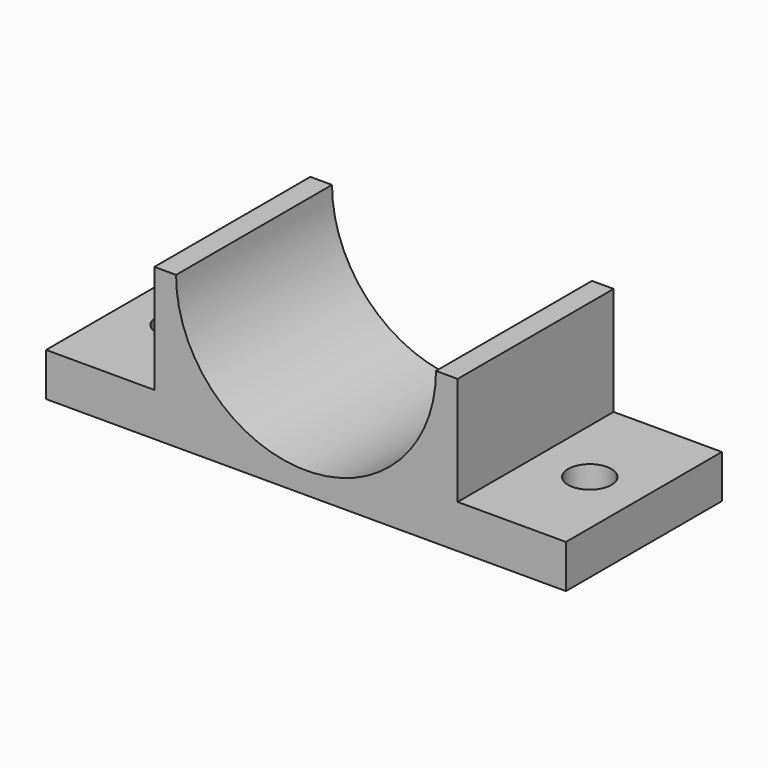
from build123d import *

# Parameters (mm, degrees)
F1_DEPTH = 57.15
F2_R     = 6.35
F3_DEPTH = 53.848


with BuildPart() as f1:
    # F0 (on Front) → F1 (new body)
    with BuildSketch(Plane.XZ):
        with BuildLine():
            Line((-37.852213, -16.466373), (-69.602213, -16.466373))
            Line((-69.602213, -16.466373), (-69.602213, -29.166373))
            Line((-69.602213, -29.166373), (82.797787, -29.166373))
            Line((82.797787, -29.166373), (82.797787, -16.466373))
            Line((82.797787, -16.466373), (51.047787, -16.466373))
            Line((51.047787, -16.466373), (51.047787, 15.283627))
            Line((51.047787, 15.283627), (44.697787, 15.283627))
            ThreePointArc((44.697787, 15.283627), (6.597787, -22.816373), (-31.502213, 15.283627))
            Line((-31.502213, 15.283627), (-37.852213, 15.283627))
            Line((-37.852213, 15.283627), (-37.852213, -16.466373))
        make_face()
    extrude(amount=-F1_DEPTH)

    # F2 (on face) → F3 (cut)
    with BuildSketch(Plane.XY.offset(-16.466373)):
        with Locations((-53.727213, 28.575)):
            Circle(F2_R)
        with Locations((66.922787, 28.575)):
            Circle(F2_R)
    extrude(amount=-F3_DEPTH, mode=Mode.SUBTRACT)


solid = f1.part
